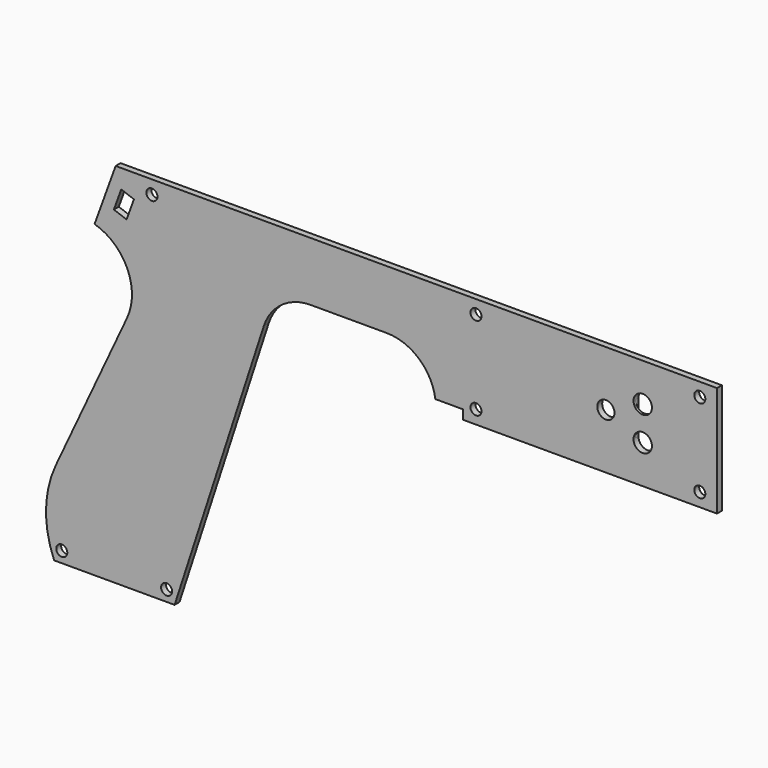
from build123d import *

# Parameters (mm, degrees)
SKETCH080_R           = 2.25
EXTRUDE081_DEPTH      = 0.6
EXTRUDE081_DEPTH_BACK = 2.4
SKETCH081_R           = 3.4
EXTRUDE080_DEPTH      = 2.4
EXTRUDE079_DEPTH      = 1.2
SKETCH075_R           = 1.8
SKETCH075_R_2         = 2.8
SKETCH075_R_3         = 3
EXTRUDE078_DEPTH      = 2


with BuildPart() as extrude081:
    # Sketch080 → Extrude081 (new body, two sides)
    with BuildSketch(Plane.XZ) as extrude081_sk:
        with Locations((-18.6, 12.1)):
            Circle(SKETCH080_R)
        with Locations((-18.6, 30.3)):
            Circle(SKETCH080_R)
        with Locations((-43.2, 30.3)):
            Circle(SKETCH080_R)
        with Locations((-43.2, 12.1)):
            Circle(SKETCH080_R)
    extrude(amount=EXTRUDE081_DEPTH)
    extrude(extrude081_sk.sketch, amount=-EXTRUDE081_DEPTH_BACK)


with BuildPart() as extrude080:
    # Sketch081 → Extrude080 (new body)
    with BuildSketch(Plane.XZ):
        with Locations((-43.2, 30.3)):
            Circle(SKETCH081_R)
        with Locations((-18.6, 30.3)):
            Circle(SKETCH081_R)
        with Locations((-43.2, 12.1)):
            Circle(SKETCH081_R)
        with Locations((-18.6, 12.1)):
            Circle(SKETCH081_R)
    extrude(amount=-EXTRUDE080_DEPTH)


with BuildPart() as obj1:
    # Sketch077 → Extrude079 (new body)
    with BuildSketch(Plane.XZ):
        with BuildLine():
            Line((-27.2, 26.7), (-27.2, 15.7))
            ThreePointArc((-27.2, 15.7), (-24.2, 12.7), (-21.2, 15.7))
            Line((-21.2, 26.700018), (-21.2, 15.7))
            ThreePointArc((-21.2, 26.700018), (-24.200009, 29.7), (-27.2, 26.7))
        make_face()
    extrude(amount=EXTRUDE079_DEPTH)


with BuildPart() as cut046:
    # Sketch075 → Extrude078 (new body)
    with BuildSketch(Plane.XZ):
        with BuildLine():
            Line((-82.8, 3.2), (0, 3.2))
            Line((0, 3.2), (0, 39.2))
            Line((-195.886839, 39.2), (0, 39.2))
            Line((-202.764796, 20.302968), (-195.886839, 39.2))
            ThreePointArc((-192.175575, -3.18451), (-192.085048, 10.987093), (-202.764796, 20.302968))
            Line((-192.175575, -3.18451), (-215.419579, -53.031439))
            ThreePointArc((-215.419579, -53.031439), (-218.578907, -66.677212), (-215.93199, -80.431568))
            Line((-215.93199, -80.431568), (-176.68528, -80.431568))
            Line((-147.645309, 8.944272), (-176.68528, -80.431568))
            ThreePointArc((-132.428405, 20), (-141.832969, 16.944272), (-147.645309, 8.944272))
            Line((-132.428405, 20), (-107.6, 20))
            ThreePointArc((-91.751972, 6.2), (-97.09286, 16.066483), (-107.6, 20))
            Line((-82.8, 6.2), (-91.751972, 6.2))
            Line((-82.8, 3.2), (-82.8, 6.2))
        make_face()
        with Locations((-213.443268, -76.831568)):
            Circle(SKETCH075_R, mode=Mode.SUBTRACT)
        with Locations((-179.304663, -76.831568)):
            Circle(SKETCH075_R, mode=Mode.SUBTRACT)
        with Locations((-184.079668, 34.8)):
            Circle(SKETCH075_R, mode=Mode.SUBTRACT)
        with Locations((-78.51, 34.8)):
            Circle(SKETCH075_R, mode=Mode.SUBTRACT)
        with Locations((-78.51, 7.6)):
            Circle(SKETCH075_R, mode=Mode.SUBTRACT)
        with Locations((-5.6, 34.8)):
            Circle(SKETCH075_R, mode=Mode.SUBTRACT)
        with Locations((-5.6, 7.6)):
            Circle(SKETCH075_R, mode=Mode.SUBTRACT)
        with Locations((-36.2, 21.2)):
            Circle(SKETCH075_R_2, mode=Mode.SUBTRACT)
        with Locations((-24.2, 26.7)):
            Circle(SKETCH075_R_3, mode=Mode.SUBTRACT)
        with Locations((-24.2, 15.7)):
            Circle(SKETCH075_R_3, mode=Mode.SUBTRACT)
        Polygon((-189.938695, 31.567195), (-192.332836, 24.989347), (-196.467483, 26.494236), (-194.073342, 33.072084), (-193.885404, 33.00368), (-190.126633, 31.635599), align=None, mode=Mode.SUBTRACT)
    extrude(amount=EXTRUDE078_DEPTH)

    # Cut045: cut obj1
    add(obj1.part, mode=Mode.SUBTRACT)

    # Fusion004: union Extrude080
    add(extrude080.part)

    # Cut046: cut Extrude081
    add(extrude081.part, mode=Mode.SUBTRACT)


solid = cut046.part
